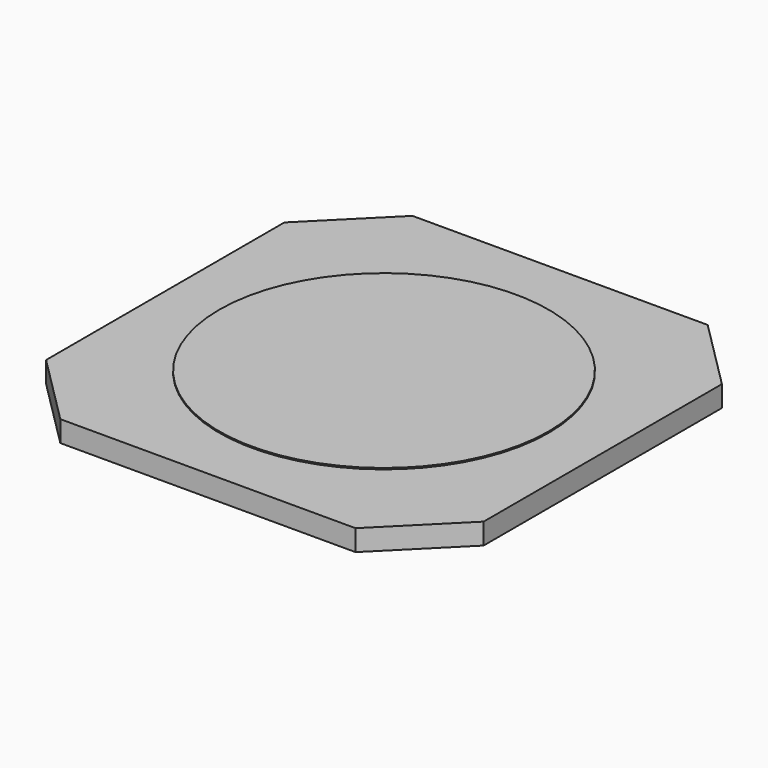
from build123d import *

# Parameters (mm, degrees)
F1_DEPTH = 1.6
F2_R     = 12.5
F3_DEPTH = 1.7


with BuildPart() as f1:
    # F0 (on Top) → F1 (new body)
    with BuildSketch(Plane.XY):
        Polygon((11.2, 16.7), (-11.2, 16.7), (-16.6, 11.3), (-16.6, -11.3), (-11.2, -16.7), (11.2, -16.7), (16.6, -11.3), (16.6, 11.3), align=None)
    extrude(amount=F1_DEPTH)


with BuildPart() as f3:
    # F2 (on Top) → F3 (new body)
    with BuildSketch(Plane.XY):
        Circle(F2_R)
    extrude(amount=F3_DEPTH)


solid = Compound([f1.part, f3.part])
